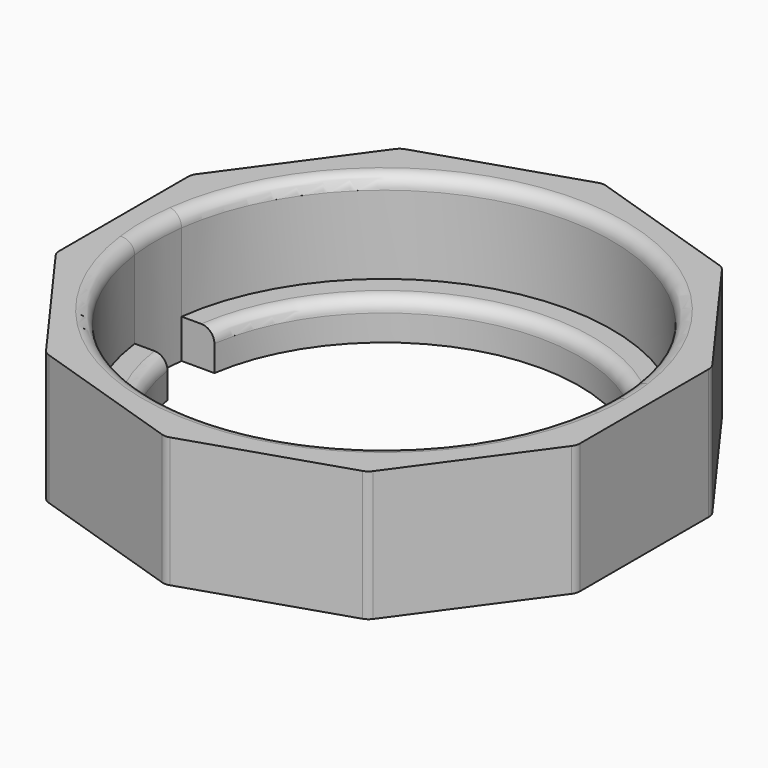
from build123d import *

# Parameters (mm, degrees)
F1_DEPTH = 10
F2_DEPTH = 3
F3_R     = 1
F4_R     = 1
F5_R     = 1


with BuildPart() as f1:
    # F0 (on Top) → F1 (new body)
    with BuildSketch(Plane.XY):
        with BuildLine():
            ThreePointArc((17.3547543918, 2.25), (17.4636508476, 1.1273415949), (17.5, 0))
            ThreePointArc((17.5, 0), (17.4636508476, -1.1273415949), (17.3547543918, -2.25))
            Line((17.3547543918, -2.25), (20.0049429916, -2.25))
            Line((20.0049429916, -2.25), (20.0049429916, 2.25))
            Line((20.0049429916, 2.25), (17.3547543918, 2.25))
        make_face()
        with BuildLine():
            ThreePointArc((-17.3547543918, 2.25), (0, 17.5), (17.3547543918, 2.25))
            Line((17.3547543918, 2.25), (20.0049429916, 2.25))
            Line((20.0049429916, 2.25), (20.0049429916, 6.5))
            Line((20.0049429916, 6.5), (12.3637347118, 17.0172209269))
            Line((12.3637347118, 17.0172209269), (0, 21.0344418537))
            Line((0, 21.0344418537), (-12.3637347118, 17.0172209269))
            Line((-12.3637347118, 17.0172209269), (-20.0049429916, 6.5))
            Line((-20.0049429916, 6.5), (-20.0049429916, 2.25))
            Line((-20.0049429916, 2.25), (-17.3547543918, 2.25))
        make_face()
        with BuildLine():
            Line((20.0049429916, -2.25), (17.3547543918, -2.25))
            ThreePointArc((17.3547543918, -2.25), (0, -17.5), (-17.3547543918, -2.25))
            Line((-17.3547543918, -2.25), (-20.0049429916, -2.25))
            Line((-20.0049429916, -2.25), (-20.0049429916, -6.5))
            Line((-20.0049429916, -6.5), (-12.3637347118, -17.0172209269))
            Line((-12.3637347118, -17.0172209269), (0, -21.0344418537))
            Line((0, -21.0344418537), (12.3637347118, -17.0172209269))
            Line((12.3637347118, -17.0172209269), (20.0049429916, -6.5))
            Line((20.0049429916, -6.5), (20.0049429916, -2.25))
        make_face()
        with BuildLine():
            ThreePointArc((-17.3547543918, -2.25), (-17.5, 0), (-17.3547543918, 2.25))
            Line((-17.3547543918, 2.25), (-20.0049429916, 2.25))
            Line((-20.0049429916, 2.25), (-20.0049429916, -2.25))
            Line((-20.0049429916, -2.25), (-17.3547543918, -2.25))
        make_face()
    extrude(amount=F1_DEPTH)

    # F0 (on Top) → F2 (join)
    with BuildSketch(Plane.XY):
        with BuildLine():
            ThreePointArc((17.3547543918, -2.25), (17.4636508476, -1.1273415949), (17.5, 0))
            ThreePointArc((17.5, 0), (17.4636508476, 1.1273415949), (17.3547543918, 2.25))
            Line((17.3547543918, 2.25), (14.83028995, 2.25))
            ThreePointArc((14.83028995, 2.25), (14.957512314, 1.1281956281), (15, 0))
            ThreePointArc((15, 0), (14.957512314, -1.1281956281), (14.83028995, -2.25))
            Line((14.83028995, -2.25), (17.3547543918, -2.25))
        make_face()
        with BuildLine():
            ThreePointArc((-17.3547543918, -2.25), (0, -17.5), (17.3547543918, -2.25))
            Line((17.3547543918, -2.25), (14.83028995, -2.25))
            ThreePointArc((14.83028995, -2.25), (0, -15), (-14.83028995, -2.25))
            Line((-14.83028995, -2.25), (-17.3547543918, -2.25))
        make_face()
        with BuildLine():
            Line((14.83028995, 2.25), (17.3547543918, 2.25))
            ThreePointArc((17.3547543918, 2.25), (0, 17.5), (-17.3547543918, 2.25))
            Line((-17.3547543918, 2.25), (-14.83028995, 2.25))
            ThreePointArc((-14.83028995, 2.25), (0, 15), (14.83028995, 2.25))
        make_face()
    extrude(amount=F2_DEPTH)

    # F3
    f3_edges = [f1.edges().sort_by_distance(p)[0] for p in [
        (15, 0, 3),
    ]]
    fillet(f3_edges, radius=F3_R)

    # F4
    f4_edges = [f1.edges().sort_by_distance(p)[0] for p in [
        (20.004943, -6.5, 5),
        (12.363735, -17.017221, 5),
        (0, -21.034442, 5),
        (-12.363735, -17.017221, 5),
        (-20.004943, -6.5, 5),
        (-20.004943, 6.5, 5),
        (0, 21.034442, 5),
        (-12.363735, 17.017221, 5),
        (12.363735, 17.017221, 5),
        (20.004943, 6.5, 5),
    ]]
    fillet(f4_edges, radius=F4_R)

    # F5
    f5_edges = [f1.edges().sort_by_distance(p)[0] for p in [
        (17.354754, 2.25, 10),
    ]]
    fillet(f5_edges, radius=F5_R)


solid = f1.part
